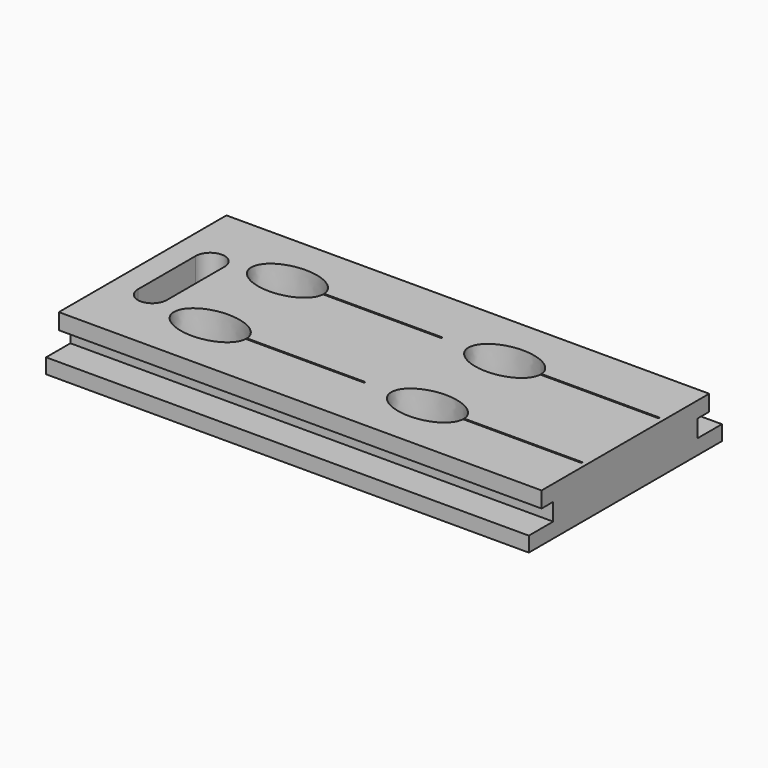
from build123d import *

# Parameters (mm, degrees)
SKETCH_W             = 100
SKETCH_H             = 50
PAD_DEPTH            = 10
POCKET_DEPTH         = 21
POCKET001_DEPTH      = 274.500444
POCKET001_DEPTH_BACK = 274.500444
POCKET002_DEPTH      = 10.001
SKETCH005_W          = 24.5
SKETCH005_H          = 0.3
POCKET003_DEPTH      = 6


with BuildPart() as part:
    # Sketch → Pad (new body)
    with BuildSketch(Plane.XY):
        Rectangle(SKETCH_W, SKETCH_H)
    extrude(amount=-PAD_DEPTH)

    # Sketch001 → Pocket (cut)
    with BuildSketch(Plane.XY):
        with BuildLine():
            add(Edge.make_bspline(
                [(-20.5, 10), (-20.5, 18.227241), (-31.75, 14.113621), (-43, 10), (-31.75, 5.886379), (-20.5, 1.772759), (-20.5, 10)],
                knots=[0, 0, 0, 2.094395, 2.094395, 4.18879, 4.18879, 6.283185, 6.283185, 6.283185], degree=2, weights=[1, 0.5, 1, 0.5, 1, 0.5, 1]))
        make_face()
        with BuildLine():
            add(Edge.make_bspline(
                [(24.5, 10), (24.5, 18.227241), (13.25, 14.113621), (2, 10), (13.25, 5.886379), (24.5, 1.772759), (24.5, 10)],
                knots=[0, 0, 0, 2.094395, 2.094395, 4.18879, 4.18879, 6.283185, 6.283185, 6.283185], degree=2, weights=[1, 0.5, 1, 0.5, 1, 0.5, 1]))
        make_face()
        with BuildLine():
            add(Edge.make_bspline(
                [(-20.5, -10), (-20.5, -1.772759), (-31.75, -5.886379), (-43, -10), (-31.75, -14.113621), (-20.5, -18.227241), (-20.5, -10)],
                knots=[0, 0, 0, 2.094395, 2.094395, 4.18879, 4.18879, 6.283185, 6.283185, 6.283185], degree=2, weights=[1, 0.5, 1, 0.5, 1, 0.5, 1]))
        make_face()
        with BuildLine():
            add(Edge.make_bspline(
                [(24.5, -10), (24.5, -1.772759), (13.25, -5.886379), (2, -10), (13.25, -14.113621), (24.5, -18.227241), (24.5, -10)],
                knots=[0, 0, 0, 2.094395, 2.094395, 4.18879, 4.18879, 6.283185, 6.283185, 6.283185], degree=2, weights=[1, 0.5, 1, 0.5, 1, 0.5, 1]))
        make_face()
    extrude(amount=-POCKET_DEPTH, mode=Mode.SUBTRACT)

    # Sketch003 → Pocket001 (cut, two sides)
    with BuildSketch(Plane.YZ) as pocket001_sk:
        Polygon((-25, 0), (-25, -6.9), (-18.7, -6.9), (-18.7, -3.3), (-21.7, -3.3), (-21.7, 0), align=None)
    pocket001 = extrude(amount=-POCKET001_DEPTH, mode=Mode.SUBTRACT) + extrude(pocket001_sk.sketch, amount=POCKET001_DEPTH_BACK, mode=Mode.SUBTRACT)

    # Mirrored: Pocket001 across Sketch003 V_Axis
    add(pocket001.mirror(Plane(origin=(0, 0, 0), x_dir=(1, 0, 0), z_dir=(0, 1, 0))), mode=Mode.SUBTRACT)

    # Sketch004 → Pocket002 (cut, through all)
    with BuildSketch(Plane.XY):
        with BuildLine():
            ThreePointArc((-39, 7.5), (-42, 10.5), (-45, 7.5))
            Line((-45, 7.5), (-45, -7.5))
            ThreePointArc((-45, -7.5), (-42, -10.5), (-39, -7.5))
            Line((-39, -7.5), (-39, 7.5))
        make_face()
    extrude(amount=-POCKET002_DEPTH, mode=Mode.SUBTRACT)

    # Sketch005 → Pocket003 (cut)
    with BuildSketch(Plane.XY):
        with Locations((-8.25, 10)):
            Rectangle(SKETCH005_W, SKETCH005_H)
        with Locations((36.75, 10)):
            Rectangle(SKETCH005_W, SKETCH005_H)
        with Locations((-8.25, -10)):
            Rectangle(SKETCH005_W, SKETCH005_H)
        with Locations((36.75, -10)):
            Rectangle(SKETCH005_W, SKETCH005_H)
    extrude(amount=-POCKET003_DEPTH, mode=Mode.SUBTRACT)


solid = part.part
